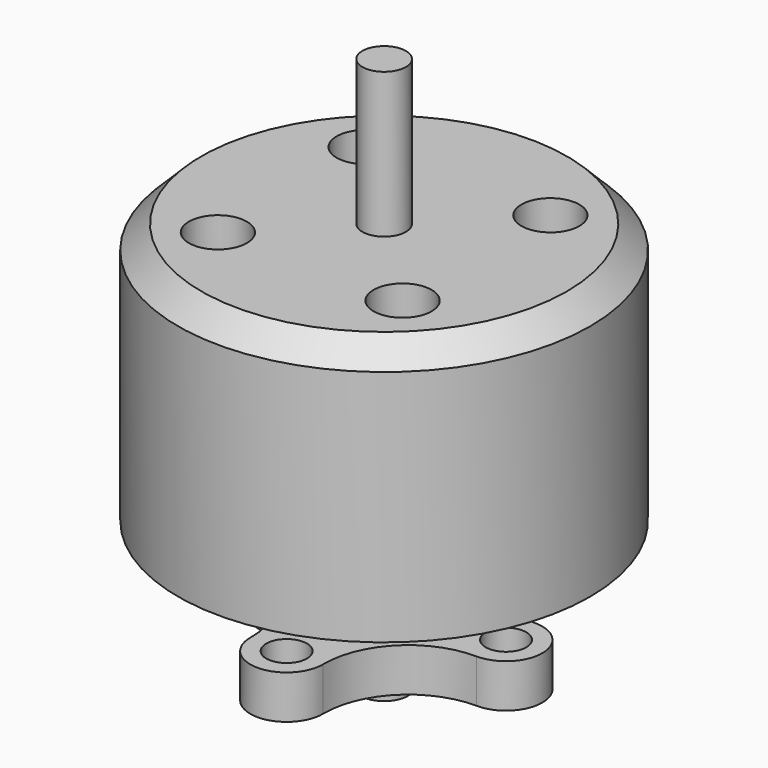
from build123d import *

# Parameters (mm, degrees)
F0_R      = 7.1
F1_DEPTH  = 9
F2_R      = 0.75
F3_DEPTH  = 5
F4_R      = 1
F5_DEPTH  = 3
F6_R      = 2.75
F7_DEPTH  = 3
F8_R      = 0.7
F9_DEPTH  = 0.75
F10_R     = 2
F11_DEPTH = 0.3
F12_R     = 0.8227174872
F13_DEPTH = 1
F14_SIZE  = 0.8


with BuildPart() as f1:
    # F0 (on Top) → F1 (new body)
    with BuildSketch(Plane.XY):
        Circle(F0_R)
    extrude(amount=F1_DEPTH)

    # F2 (on face) → F3 (join)
    with BuildSketch(Plane.XY.offset(9)):
        Circle(F2_R)
    extrude(amount=F3_DEPTH)

    # F4 (on face) → F5 (cut)
    with BuildSketch(Plane.XY.offset(9)):
        with Locations((3.1819805153, 3.1819805153)):
            Circle(F4_R)
        with Locations((-3.1819805153, 3.1819805153)):
            Circle(F4_R)
        with Locations((-3.1819805153, -3.1819805153)):
            Circle(F4_R)
        with Locations((3.1819805153, -3.1819805153)):
            Circle(F4_R)
    extrude(amount=-F5_DEPTH, mode=Mode.SUBTRACT)

    # F6 (on face) → F7 (join)
    with BuildSketch(Plane(origin=(0, 0, 0), x_dir=(1, 0, 0), z_dir=(0, 0, -1))):
        Circle(F6_R)
    extrude(amount=F7_DEPTH)

    # F8 (on face) → F9 (join, symmetric)
    with BuildSketch(Plane(origin=(0, 0, -3), x_dir=(1, 0, 0), z_dir=(0, 0, -1))):
        with BuildLine():
            ThreePointArc((4.185713319, -1.25), (5.450081641, 0), (4.185713319, 1.25))
            ThreePointArc((4.185713319, 1.25), (3.0570558213, 1.4644635871), (2.1, 2.1))
            ThreePointArc((2.1, 2.1), (1.4644635871, 3.0570558213), (1.25, 4.185713319))
            ThreePointArc((1.25, 4.185713319), (0, 5.450081641), (-1.25, 4.185713319))
            ThreePointArc((-1.25, 4.185713319), (-1.4644635871, 3.0570558213), (-2.1, 2.1))
            ThreePointArc((-2.1, 2.1), (-3.0570558213, 1.4644635871), (-4.185713319, 1.25))
            ThreePointArc((-4.185713319, 1.25), (-5.450081641, 0), (-4.185713319, -1.25))
            ThreePointArc((-4.185713319, -1.25), (-3.0570558213, -1.4644635871), (-2.1, -2.1))
            ThreePointArc((-2.1, -2.1), (-1.4644635871, -3.0570558213), (-1.25, -4.185713319))
            ThreePointArc((-1.25, -4.185713319), (0, -5.450081641), (1.25, -4.185713319))
            ThreePointArc((1.25, -4.185713319), (1.4644635871, -3.0570558213), (2.1, -2.1))
            ThreePointArc((2.1, -2.1), (3.0570558213, -1.4644635871), (4.185713319, -1.25))
        make_face()
        with Locations((0, -4.2)):
            Circle(F8_R, mode=Mode.SUBTRACT)
        with Locations((-4.2, 0)):
            Circle(F8_R, mode=Mode.SUBTRACT)
        with Locations((4.2, 0)):
            Circle(F8_R, mode=Mode.SUBTRACT)
        with Locations((0, 4.2)):
            Circle(F8_R, mode=Mode.SUBTRACT)
    extrude(amount=F9_DEPTH, both=True)

    # F10 (on face) → F11 (join)
    with BuildSketch(Plane(origin=(0, 0, -3.75), x_dir=(1, 0, 0), z_dir=(0, 0, -1))):
        Circle(F10_R)
    extrude(amount=F11_DEPTH)

    # F12 (on face) → F13 (join)
    with BuildSketch(Plane(origin=(0, 0, -4.05), x_dir=(1, 0, 0), z_dir=(0, 0, -1))):
        Circle(F12_R)
    extrude(amount=F13_DEPTH)

    # F14
    f14_edges = [f1.edges().sort_by_distance(p)[0] for p in [
        (-7.1, 0, 9),
    ]]
    chamfer(f14_edges, length=F14_SIZE)


solid = f1.part
